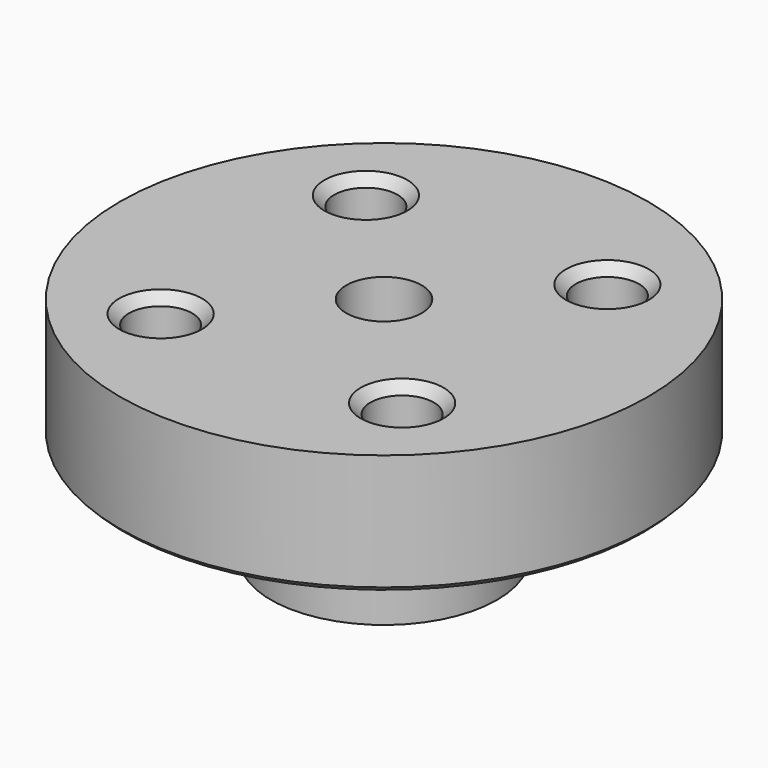
from build123d import *

# Parameters (mm, degrees)
F3_D           = 4.2
F3_CSINK_D     = 5.5
F3_CSINK_ANGLE = 90
F5_D           = 5
F5_CSINK_D     = 6.5
F5_CSINK_ANGLE = 90
F6_SIZE        = 0.3


with BuildPart() as f1:
    # F0 (on Front) → F1 (revolve)
    with BuildSketch(Plane.XZ):
        Polygon((17.5, 29.481971), (0, 29.481971), (0, 14.381971), (7.5, 14.381971), (7.5, 22.481971), (15.5, 22.481971), (15.5, 21.481971), (17.5, 21.481971), align=None)
    revolve(axis=Axis((0, 0, 21.931971), (0, 0, -1)))

    # F3 (through all)
    with Locations(Plane.XY.offset(29.481971)):
        with Locations((-8, 8.5), (8, 8.5), (8, -8.5), (-8, -8.5)):
            CounterSinkHole(F3_D / 2, F3_CSINK_D / 2, counter_sink_angle=F3_CSINK_ANGLE)

    # F5 (through all)
    with Locations(Plane(origin=(0, 0, 14.381971), x_dir=(1, 0, 0), z_dir=(0, 0, -1))):
        with Locations((0, 0)):
            CounterSinkHole(F5_D / 2, F5_CSINK_D / 2, counter_sink_angle=F5_CSINK_ANGLE)

    # F6
    f6_edges = [f1.edges().sort_by_distance(p)[0] for p in [
        (-17.5, 0, 21.481971),
    ]]
    chamfer(f6_edges, length=F6_SIZE)


solid = f1.part
